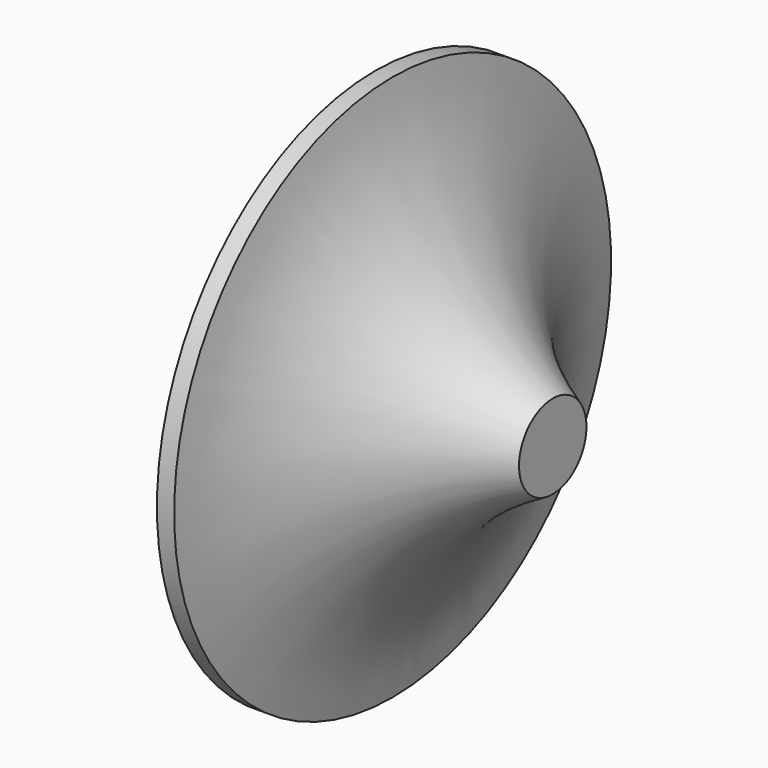
from build123d import *

# Parameters (mm, degrees)
F2_R     = 6.371783
F3_DEPTH = 25.4


with BuildPart() as f1:
    # F0 (on Front) → F1 (revolve)
    with BuildSketch(Plane.XZ):
        with BuildLine():
            Line((-35.959553, -24.715056), (-35.959553, -31.065056))
            Line((-35.959553, -31.065056), (-29.609553, -31.065056))
            Line((-29.609553, -31.065056), (-29.609553, -24.715056))
            ThreePointArc((-29.609553, -24.715056), (-46.029453, -10.332528), (-53.739551, 10.088652))
            Line((-53.739551, 10.088652), (-56.33663, 10.088652))
            ThreePointArc((-56.33663, 10.088652), (-49.666884, -9.373405), (-35.959553, -24.715056))
        make_face()
    revolve(axis=Axis((-32.784553, 0, -31.065056), (1, 0, 0)))

    # F2 (on Right) → F3 (cut)
    with BuildSketch(Plane.YZ):
        with Locations((-2.137947, -28.209075)):
            Circle(F2_R)
    extrude(amount=-F3_DEPTH, mode=Mode.SUBTRACT)


solid = f1.part
